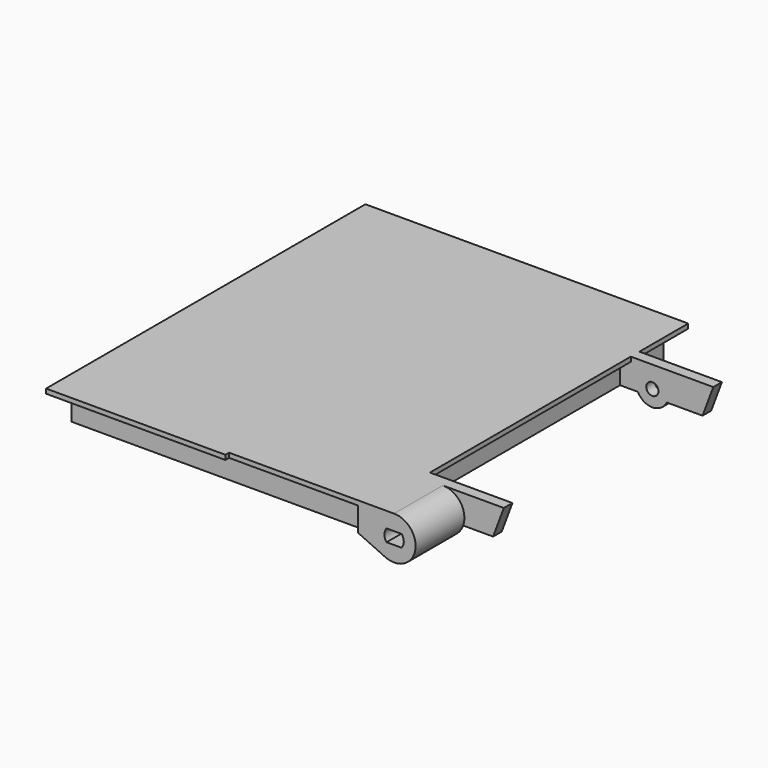
from build123d import *

# Parameters (mm, degrees)
PAD014_DEPTH               = 1.28
PAD015_DEPTH               = 17
SKETCH018_W                = 82.4657333469
SKETCH018_H                = 103.1855755689
PAD016_DEPTH               = 8
PAD020_DEPTH               = 3
PAD020_MIRRORED008_2_DEPTH = 3
SKETCH026_R                = 1.5
POCKET002_DEPTH            = 4.301
MULTITRANSFORM004_FACE58_W = 3
MULTITRANSFORM004_FACE58_H = 6.72
PAD021_DEPTH               = 5
PAD021_FACE71_W            = 3
PAD021_FACE71_H            = 6.72
PAD022_DEPTH               = 4
SKETCH033_R                = 4.5
PAD029_DEPTH               = 3
SKETCH034_R                = 1.7
POCKET005_DEPTH            = 55.001


with BuildPart() as part:
    # Sketch016 → Pad014 (new body)
    with BuildSketch(Plane.XY):
        Polygon((-90, -56.28), (-90, 55), (0, 55), (0, 0), (0, -55), (-40, -55), (-40, -56.28), align=None)
    extrude(amount=-PAD014_DEPTH)

    # Sketch017 (on Face5 of Pad014) → Pad015 (join)
    with BuildSketch(Plane.XZ.offset(55)):
        with BuildLine():
            ThreePointArc((3.4899774441, -11.449751074), (11.8608235957, -7.2848139089), (6.0000000021, 0))
            Line((6.0000000021, 0), (0, 0))
            Line((-4, 0), (0, 0))
            Line((-4, -8), (-4, 0))
            Line((3.4899774441, -11.449751074), (-4, -8))
        make_face()
        with BuildLine():
            ThreePointArc((3.9023823037, -4.3), (3.3, -6), (3.9023823037, -7.7))
            Line((3.9023823037, -7.7), (8.0976176963, -7.7))
            ThreePointArc((8.0976176963, -7.7), (8.7, -6), (8.0976176963, -4.3))
            Line((3.9023823037, -4.3), (8.0976176963, -4.3))
        make_face(mode=Mode.SUBTRACT)
    extrude(amount=-PAD015_DEPTH)

    # Sketch018 → Pad016 (join)
    with BuildSketch(Plane.XY):
        with Locations((-44.2328666735, -1.4496544031)):
            Rectangle(SKETCH018_W, SKETCH018_H)
        Polygon((-5.4, -50.6424421875), (-83.0657333469, -50.6424421875), (-83.0657333469, -38.075158972), (-83.0657333469, -35.675158972), (-83.0657333469, 47.7431333814), (-5.4, 47.7431333814), (-5.4, -35.675159), (-5.4, -38.075157), align=None, mode=Mode.SUBTRACT)
    extrude(amount=-PAD016_DEPTH)

    # Sketch024 → Pad020 (join)
    with BuildSketch(Plane.XZ.offset(35)):
        Polygon((23, 0), (-3, 0), (-3, -8), (20, -8), align=None)
    pad020 = extrude(amount=PAD020_DEPTH)

    # Sketch024 Mirrored008 2 → Pad020 Mirrored008 2 (add)
    with BuildSketch(Plane(origin=(-10.8, -35, 0), x_dir=(-1, 0, 0), z_dir=(0, 1, 0))):
        Polygon((23, 0), (-3, 0), (-3, -8), (20, -8), align=None)
    pad020_mirrored008_2 = extrude(amount=-PAD020_MIRRORED008_2_DEPTH)

    # Mirrored009: Pad020, Pad020 Mirrored008 2 across XZ
    add(pad020.mirror(Plane.XZ))
    add(pad020_mirrored008_2.mirror(Plane.XZ))

    # Sketch026 (on Face40 of MultiTransform004) → Pocket002 (cut, through all)
    with BuildSketch(Plane.XY.offset(-7.7)):
        with Locations((6, -47.5)):
            Circle(SKETCH026_R)
    extrude(amount=-POCKET002_DEPTH, mode=Mode.SUBTRACT)

    # MultiTransform004 Face58 → Pad021 (add)
    with BuildSketch(Plane(origin=(-7.8, -36.5, -4.64), x_dir=(0, -1, 0), z_dir=(1, 0, 0))):
        Rectangle(MULTITRANSFORM004_FACE58_W, MULTITRANSFORM004_FACE58_H)
    extrude(amount=PAD021_DEPTH)

    # Pad021 Face71 → Pad022 (add)
    with BuildSketch(Plane(origin=(-7.8, 36.5, -4.64), x_dir=(0, -1, 0), z_dir=(1, 0, 0))):
        Rectangle(PAD021_FACE71_W, PAD021_FACE71_H)
    extrude(amount=PAD022_DEPTH)

    # Sketch033 → Pad029 (join)
    with BuildSketch(Plane.XZ.offset(-35)):
        with Locations((6, -6)):
            Circle(SKETCH033_R)
    extrude(amount=-PAD029_DEPTH)

    # Sketch034 → Pocket005 (cut, through all)
    with BuildSketch(Plane.XZ):
        with Locations((6, -6)):
            Circle(SKETCH034_R)
    extrude(amount=-POCKET005_DEPTH, mode=Mode.SUBTRACT)


solid = part.part
